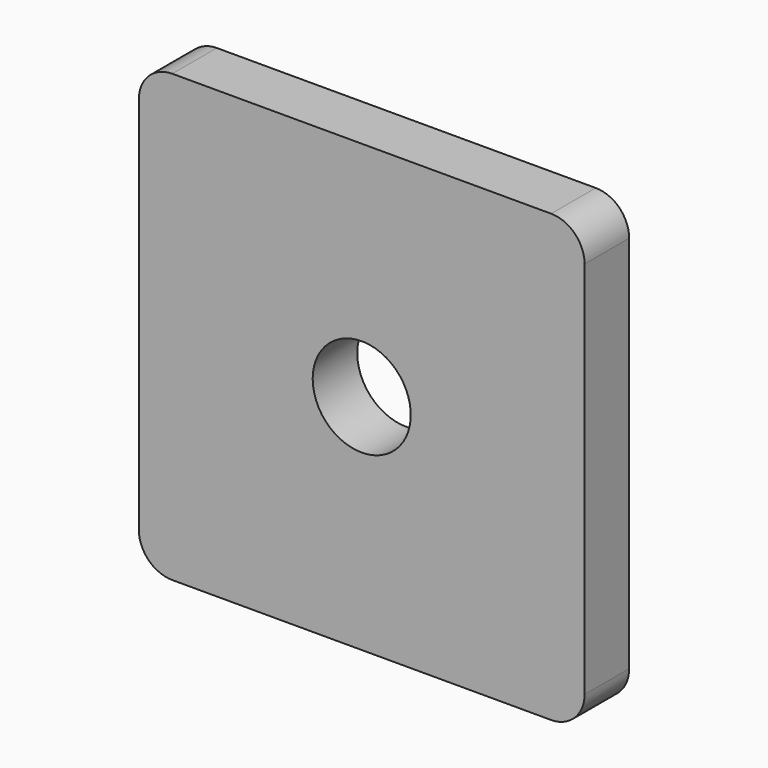
from build123d import *

# Parameters (mm, degrees)
F1_DEPTH = 5
F3_D     = 8.8


with BuildPart() as f1:
    # F0 (on Front) → F1 (new body)
    with BuildSketch(Plane.XZ):
        with BuildLine():
            ThreePointArc((20, 17), (19.1213203436, 19.1213203436), (17, 20))
            Line((17, 20), (-17, 20))
            ThreePointArc((-17, 20), (-19.1213203436, 19.1213203436), (-20, 17))
            Line((-20, 17), (-20, -17))
            ThreePointArc((-20, -17), (-19.1213203436, -19.1213203436), (-17, -20))
            Line((-17, -20), (17, -20))
            ThreePointArc((17, -20), (19.1213203436, -19.1213203436), (20, -17))
            Line((20, -17), (20, 17))
        make_face()
    extrude(amount=F1_DEPTH)

    # F3 (through all)
    with Locations(Plane.XZ.offset(5)):
        with Locations((0, 0)):
            Hole(F3_D / 2)


solid = f1.part
